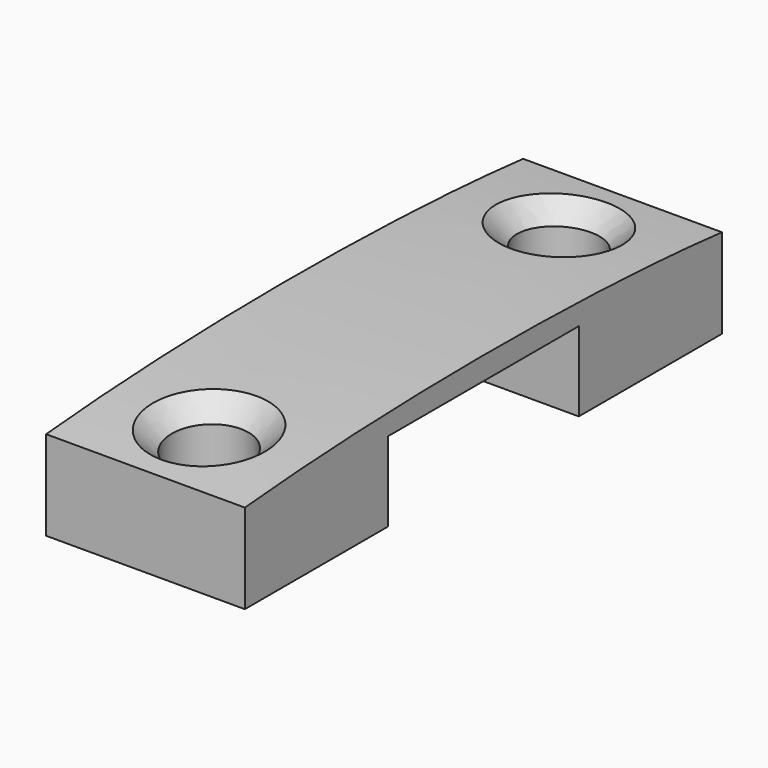
from build123d import *

# Parameters (mm, degrees)
PAD_DEPTH    = 10
SKETCH001_R  = 2
POCKET_DEPTH = 5
CHAMFER_SIZE = 1


with BuildPart() as part:
    # Sketch → Pad (new body)
    with BuildSketch(Plane.YZ):
        with BuildLine():
            Line((21, 4.5), (21, 0))
            Line((21, 0), (12, 0))
            Line((12, 0), (12, 4))
            Line((12, 4), (0, 4))
            Line((0, 4), (0, 0))
            Line((0, 0), (-9, 0))
            Line((-9, 0), (-9, 4.5))
            add(Edge.make_bspline(
                [(-9, 4.5), (0, 5.324757), (11.9547, 5.40682), (21, 4.5)],
                knots=[0, 0, 0, 0, 1, 1, 1, 1], degree=3))
        make_face()
    extrude(amount=PAD_DEPTH)

    # Sketch001 (on DatumPlane) → Pocket (cut)
    with BuildSketch(Plane(origin=(5, 6.000733, 4.941121), x_dir=(1, 0, 0), z_dir=(0, -0.000788, 1))):
        with Locations((0, -11.001076)):
            Circle(SKETCH001_R)
        with Locations((0, 10.998914)):
            Circle(SKETCH001_R)
    extrude(amount=-POCKET_DEPTH, mode=Mode.SUBTRACT)

    # Chamfer
    chamfer_edges = [part.edges().sort_by_distance(p)[0] for p in [
        (6.999968, -5.008181, 4.805456),
        (3.034006, 16.632478, 4.84968),
    ]]
    chamfer(chamfer_edges, length=CHAMFER_SIZE)


solid = part.part
